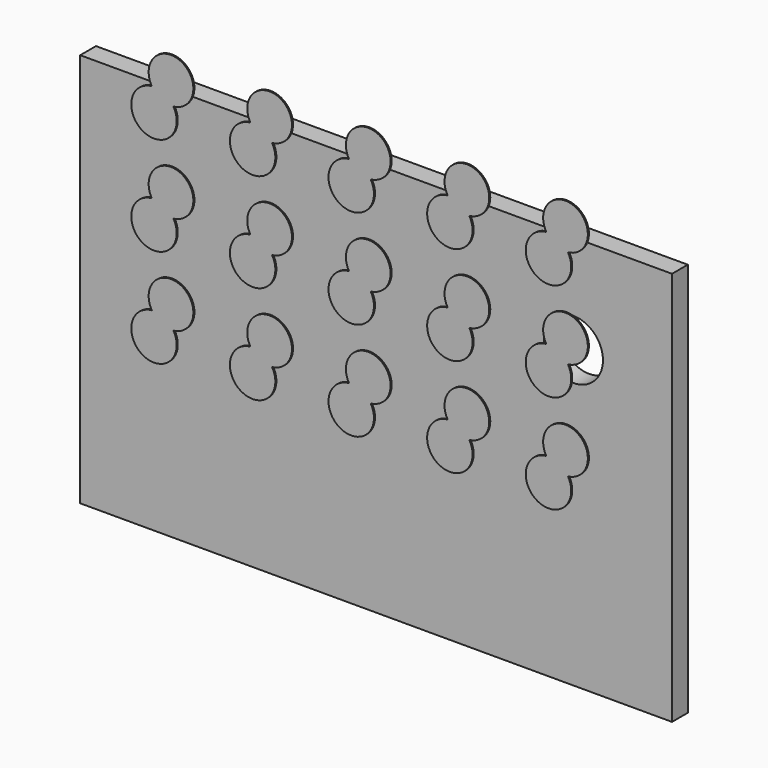
from build123d import *

# Parameters (mm, degrees)
F0_W     = 90
F0_H     = 60
F1_DEPTH = 3
F2_R     = 4.5
F3_DEPTH = 25
F5_DEPTH = 0.2


with BuildPart() as f1:
    # F0 (on Front) → F1 (new body)
    with BuildSketch(Plane.XZ):
        with Locations((45, 30)):
            Rectangle(F0_W, F0_H)
    extrude(amount=F1_DEPTH)

    # F2 (on face) → F3 (cut)
    with BuildSketch(Plane.XZ.offset(3)):
        with Locations((75, 45)):
            Circle(F2_R)
    extrude(amount=-F3_DEPTH, mode=Mode.SUBTRACT)

    # F4 (on face) → F5 (join)
    with BuildSketch(Plane.XZ.offset(3)):
        with BuildLine():
            ThreePointArc((14.332417, 27.872751), (15.485688, 34.293498), (11.041055, 29.518432))
            ThreePointArc((11.041055, 29.518432), (9.831879, 22.985878), (14.332417, 27.872751))
        make_face()
        with BuildLine():
            ThreePointArc((11.041055, 44.518432), (9.831879, 37.985878), (14.332417, 42.872751))
            ThreePointArc((14.332417, 42.872751), (15.485688, 49.293498), (11.041055, 44.518432))
        make_face()
        with BuildLine():
            ThreePointArc((11.041055, 59.518432), (9.831879, 52.985878), (14.332417, 57.872751))
            ThreePointArc((14.332417, 57.872751), (15.485688, 64.293498), (11.041055, 59.518432))
        make_face()
        with BuildLine():
            ThreePointArc((26.041055, 29.518432), (24.831879, 22.985878), (29.332417, 27.872751))
            ThreePointArc((29.332417, 27.872751), (30.485688, 34.293498), (26.041055, 29.518432))
        make_face()
        with BuildLine():
            ThreePointArc((26.041055, 44.518432), (24.831879, 37.985878), (29.332417, 42.872751))
            ThreePointArc((29.332417, 42.872751), (30.485688, 49.293498), (26.041055, 44.518432))
        make_face()
        with BuildLine():
            ThreePointArc((26.041055, 59.518432), (24.831879, 52.985878), (29.332417, 57.872751))
            ThreePointArc((29.332417, 57.872751), (30.485688, 64.293498), (26.041055, 59.518432))
        make_face()
        with BuildLine():
            ThreePointArc((41.041055, 29.518432), (39.831879, 22.985878), (44.332417, 27.872751))
            ThreePointArc((44.332417, 27.872751), (45.485688, 34.293498), (41.041055, 29.518432))
        make_face()
        with BuildLine():
            ThreePointArc((41.041055, 44.518432), (39.831879, 37.985878), (44.332417, 42.872751))
            ThreePointArc((44.332417, 42.872751), (45.485688, 49.293498), (41.041055, 44.518432))
        make_face()
        with BuildLine():
            ThreePointArc((41.041055, 59.518432), (39.831879, 52.985878), (44.332417, 57.872751))
            ThreePointArc((44.332417, 57.872751), (45.485688, 64.293498), (41.041055, 59.518432))
        make_face()
        with BuildLine():
            ThreePointArc((56.041055, 29.518432), (54.831879, 22.985878), (59.332417, 27.872751))
            ThreePointArc((59.332417, 27.872751), (60.485688, 34.293498), (56.041055, 29.518432))
        make_face()
        with BuildLine():
            ThreePointArc((56.041055, 44.518432), (54.831879, 37.985878), (59.332417, 42.872751))
            ThreePointArc((59.332417, 42.872751), (60.485688, 49.293498), (56.041055, 44.518432))
        make_face()
        with BuildLine():
            ThreePointArc((56.041055, 59.518432), (54.831879, 52.985878), (59.332417, 57.872751))
            ThreePointArc((59.332417, 57.872751), (60.485688, 64.293498), (56.041055, 59.518432))
        make_face()
        with BuildLine():
            ThreePointArc((71.041055, 29.518432), (69.831879, 22.985878), (74.332417, 27.872751))
            ThreePointArc((74.332417, 27.872751), (75.485688, 34.293498), (71.041055, 29.518432))
        make_face()
        with BuildLine():
            ThreePointArc((71.041055, 44.518432), (69.831879, 37.985878), (74.332417, 42.872751))
            ThreePointArc((74.332417, 42.872751), (75.485688, 49.293498), (71.041055, 44.518432))
        make_face()
        with BuildLine():
            ThreePointArc((71.041055, 59.518432), (69.831879, 52.985878), (74.332417, 57.872751))
            ThreePointArc((74.332417, 57.872751), (75.485688, 64.293498), (71.041055, 59.518432))
        make_face()
    extrude(amount=F5_DEPTH)


solid = f1.part
